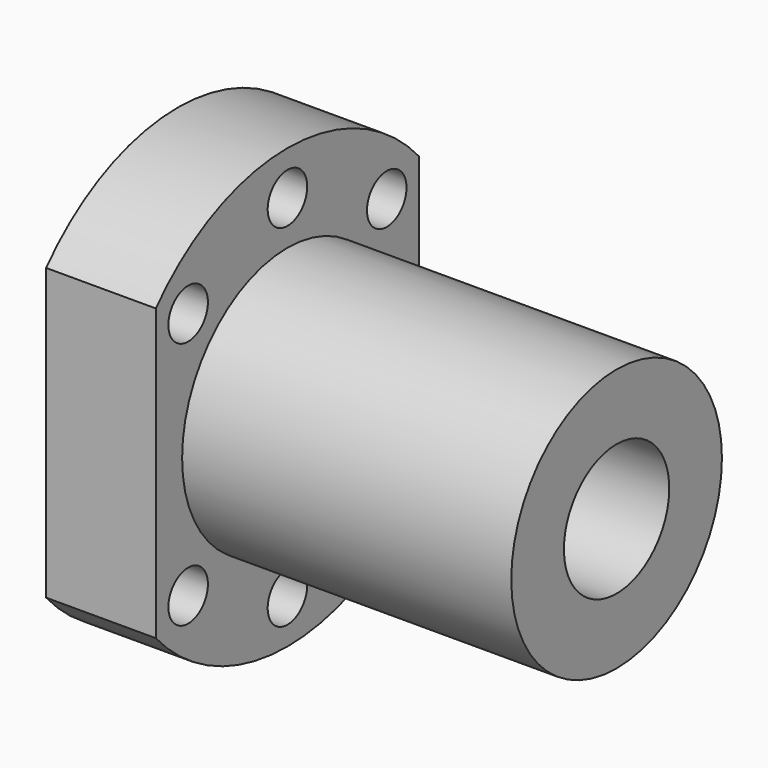
from build123d import *

# Parameters (mm, degrees)
F2_W     = 10
F2_H     = 40
F3_DEPTH = 40.001
F4_D     = 4.5


with BuildPart() as f1:
    # F0 (on Front) → F1 (revolve)
    with BuildSketch(Plane.XZ):
        Polygon((0, 20), (0, 6), (40, 6), (40, 12), (10, 12), (10, 20), align=None)
    revolve(axis=Axis((24.2165401578, 0, 0), (1, 0, 0)))

    # F2 (on face) → F3 (cut, through all)
    with BuildSketch(Plane(origin=(0, 0, 0), x_dir=(0, -1, 0), z_dir=(-1, 0, 0))):
        with Locations((-20, 0)):
            Rectangle(F2_W, F2_H)
        with Locations((20, 0)):
            Rectangle(F2_W, F2_H)
    extrude(amount=-F3_DEPTH, mode=Mode.SUBTRACT)

    # F4 (through all)
    with Locations(Plane(origin=(0, 0, 0), x_dir=(0, -1, 0), z_dir=(-1, 0, 0))):
        with Locations((-11.313708499, 11.313708499), (11.313708499, 11.313708499), (11.313708499, -11.313708499), (-11.313708499, -11.313708499), (0, 16), (0, -16)):
            Hole(F4_D / 2)


solid = f1.part
